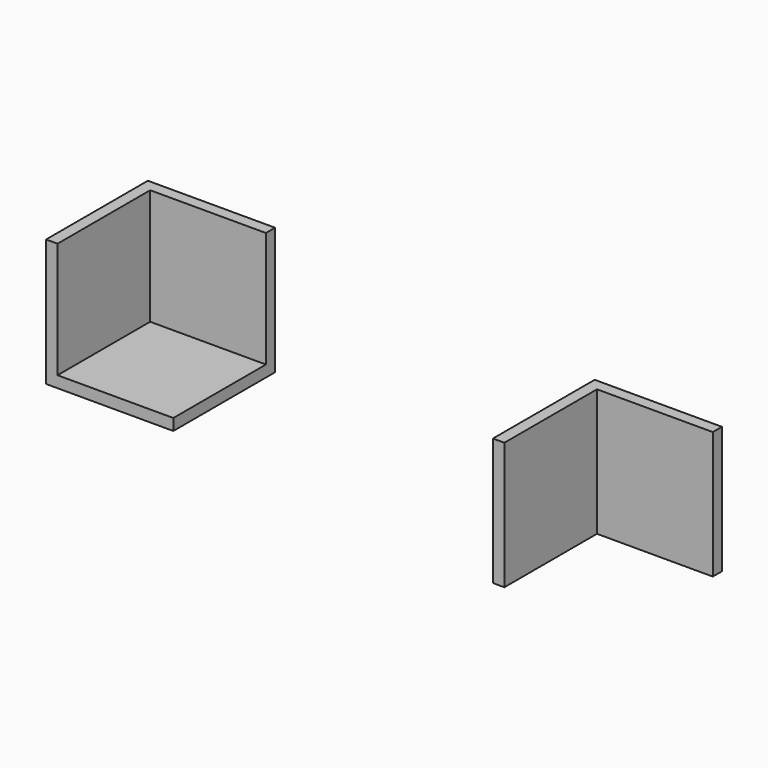
from build123d import *

# Parameters (mm, degrees)
F0_W     = 18.2
F0_H     = 18.2
F1_DEPTH = 1.8
F2_DEPTH = 20
F3_DEPTH = 20


with BuildPart() as f1:
    # F0 (on Top) → F1 (new body)
    with BuildSketch(Plane.XY):
        with Locations((-47.121396, 40.697218)):
            Rectangle(F0_W, F0_H)
    extrude(amount=F1_DEPTH)

    # F0 (on Top) → F2 (join)
    with BuildSketch(Plane.XY):
        Polygon((-38.021396, 51.597218), (-58.021396, 51.597218), (-58.021396, 31.597218), (-56.221396, 31.597218), (-56.221396, 49.797218), (-38.021396, 49.797218), align=None)
    extrude(amount=F2_DEPTH)


with BuildPart() as f3:
    # F0 (on Top) → F3 (new body)
    with BuildSketch(Plane.XY):
        Polygon((19.660961, 44.538393), (17.860961, 44.538393), (17.860961, 24.538393), (19.660961, 24.538393), (19.660961, 42.738393), (37.860961, 42.738393), (37.860961, 44.538393), align=None)
    extrude(amount=F3_DEPTH)


solid = Compound([f1.part, f3.part])
